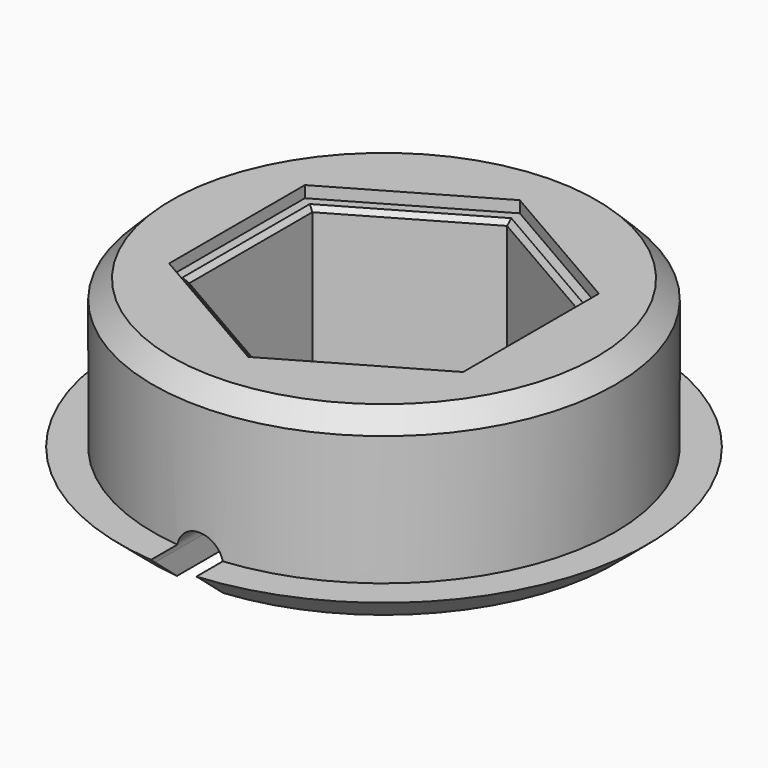
from build123d import *

# Parameters (mm, degrees)
POCKET025_DEPTH      = 19.001
POCKET026_DEPTH      = 1.25
CHAMFER002_SIZE      = 2
CHAMFER003_SIZE      = 0.5
POCKET027_DEPTH      = 28.501
POCKET027_DEPTH_BACK = 28.501


with BuildPart() as part:
    # Sketch035 (on XZ_Plane051 of Origin104) → Revolution011 (revolve)
    with BuildSketch(Plane.XZ):
        Polygon((0, 0), (24.95, 0), (28.5, 3), (24.95, 3), (24.95, 19), (0, 19), align=None)
    revolve(axis=Axis((0, 0, 0), (0, 0, 1)))

    # Sketch036 (on XY_Plane051 of Origin104) → Pocket025 (cut, through all)
    with BuildSketch(Plane.XY):
        Polygon((14.3875, 8.306627), (0, 16.613254), (-14.3875, 8.306627), (-14.3875, -8.306627), (0, -16.613254), (14.3875, -8.306627), align=None)
    extrude(amount=POCKET025_DEPTH, mode=Mode.SUBTRACT)

    # Sketch037 (on XY_Plane051 of Origin104) → Pocket026 (cut)
    with BuildSketch(Plane.XY.offset(19)):
        Polygon((15.875, -9.165436), (15.875, 9.165436), (0, 18.330871), (-15.875, 9.165436), (-15.875, -9.165436), (0, -18.330871), align=None)
    extrude(amount=-POCKET026_DEPTH, mode=Mode.SUBTRACT)

    # Chamfer002
    chamfer002_edges = [part.edges().sort_by_distance(p)[0] for p in [
        (-24.95, 0, 19),
    ]]
    chamfer(chamfer002_edges, length=CHAMFER002_SIZE)

    # Chamfer003
    chamfer003_edges = [part.edges().sort_by_distance(p)[0] for p in [
        (-14.3875, 0, 17.75),
        (-7.19375, 12.45994, 17.75),
        (7.19375, 12.45994, 17.75),
        (14.3875, 0, 17.75),
        (7.19375, -12.45994, 17.75),
        (-7.19375, -12.45994, 17.75),
    ]]
    chamfer(chamfer003_edges, length=CHAMFER003_SIZE)

    # Sketch038 (on XZ_Plane052 of Origin104) → Pocket027 (cut, two sides)
    with BuildSketch(Plane.XZ) as pocket027_sk:
        with BuildLine():
            ThreePointArc((2.5, 2.5), (0, 5), (-2.5, 2.5))
            Line((-2.5, 2.5), (-2.5, -2.5))
            Line((-2.5, -2.5), (2.5, -2.5))
            Line((2.5, -2.5), (2.5, 2.5))
        make_face()
    extrude(amount=-POCKET027_DEPTH, mode=Mode.SUBTRACT)
    extrude(pocket027_sk.sketch, amount=POCKET027_DEPTH_BACK, mode=Mode.SUBTRACT)


with BuildPart() as part_1:
    # Body056 placement: moved
    add(part.part.moved(Location((60, -60, 0))))


solid = part_1.part
